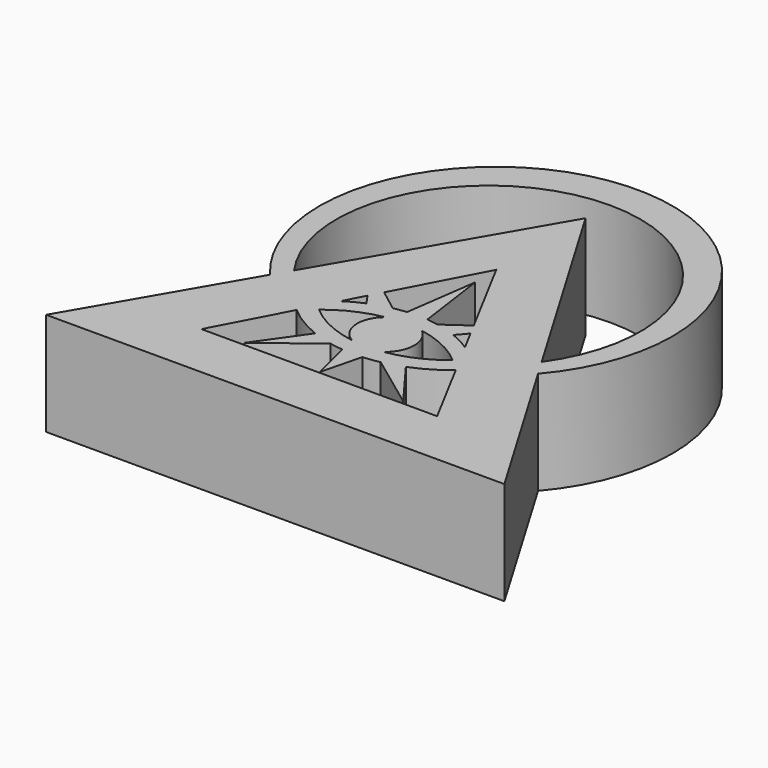
from build123d import *

# Parameters (mm, degrees)
F1_DEPTH = 12.7


with BuildPart() as f1:
    # F0 (on Top) → F1 (new body)
    with BuildSketch(Plane.XY):
        Polygon((28.4341320634, -19.4055674484), (16.6072228474, 0.5649839725), (15.3410355276, 2.7030285383), (-0.0517573007, 28.6948202291), (-15.1502847203, 2.7030285383), (-16.392266223, 0.5649839725), (-27.9930793489, -19.4055674484), align=None)
        Polygon((-5.5338866147, 4.5488285798), (-0.0517573007, 14.9570122475), (5.5130937319, 4.533275296), (6.3052360503, 3.0494829883), (7.6772975292, 0.4794217498), (9.9657592132, -3.8071840331), (14.5561209088, -12.4055674484), (-14.4639933879, -12.4055674484), (-9.8118907302, -3.5732440703), (-7.6772975292, 0.4794217498), (-6.3469045296, 3.0052605063), align=None, mode=Mode.SUBTRACT)
        with BuildLine():
            Line((15.3410355276, 2.7030285383), (16.6072228474, 0.5649839725))
            ThreePointArc((16.6072228474, 0.5649839725), (0.1074783122, 36.4493787708), (-16.392266223, 0.5649839725))
            Line((-16.392266223, 0.5649839725), (-15.1502847203, 2.7030285383))
            ThreePointArc((-15.1502847203, 2.7030285383), (0.0953754036, 32.2811959605), (15.3410355276, 2.7030285383))
        make_face()
        with BuildLine():
            ThreePointArc((-1.25, 2.7170650485), (-2.0384528171, 2.6237544729), (-2.8203458489, 2.4858849867))
            ThreePointArc((-2.8203458489, 2.4858849867), (-4.1389729791, 2.1469936148), (-5.4184339023, 1.6815856044))
            ThreePointArc((-5.4184339023, 1.6815856044), (-6.5753969397, 1.1322347953), (-7.6772975292, 0.4794217498))
            Line((-7.6772975292, 0.4794217498), (-9.8118907302, -3.5732440703))
            ThreePointArc((-9.8118907302, -3.5732440703), (-7.7087252323, -5.1071316738), (-5.3758041575, -6.2619457501))
            ThreePointArc((-5.3758041575, -6.2619457501), (-4.1416849498, -6.6870010678), (-2.8758041575, -7.0052274988))
            ThreePointArc((-2.8758041575, -7.0052274988), (-2.0662029867, -7.1497717339), (-1.25, -7.2505674484))
            ThreePointArc((-1.25, -7.2505674484), (-0.0007219038, -7.319390068), (1.25, -7.2858187435))
            ThreePointArc((1.25, -7.2858187435), (2.275174138, -7.1814245067), (3.2909858999, -7.0082002757))
            ThreePointArc((3.2909858999, -7.0082002757), (4.5568045359, -6.6913035911), (5.7909858999, -6.2676094933))
            ThreePointArc((5.7909858999, -6.2676094933), (7.9764859882, -5.2038725791), (9.9657592132, -3.8071840331))
            Line((9.9657592132, -3.8071840331), (7.6772975292, 0.4794217498))
            ThreePointArc((7.6772975292, 0.4794217498), (6.4763272445, 1.1844520007), (5.2112370885, 1.7666411251))
            ThreePointArc((5.2112370885, 1.7666411251), (3.9568230735, 2.2020283479), (2.6667947325, 2.5165811007))
            ThreePointArc((2.6667947325, 2.5165811007), (1.9609611668, 2.6349411288), (1.25, 2.7170650485))
            ThreePointArc((1.25, 2.7170650485), (0, 2.7729966451), (-1.25, 2.7170650485))
        make_face()
        with BuildLine():
            ThreePointArc((-1.718751716, -5.1704934553), (-5.1564242941, -4.1317080562), (-8.1714597641, -2.1807521431))
            ThreePointArc((-8.1714597641, -2.1807521431), (-5.3747430837, -0.4166707597), (-2.220492786, 0.5754544226))
            ThreePointArc((-2.220492786, 0.5754544226), (0.0265007063, 0.7734069274), (2.2734941986, 0.5754544226))
            ThreePointArc((2.2734941986, 0.5754544226), (5.5525227717, -0.4752769605), (8.4348964566, -2.3588869951))
            ThreePointArc((8.4348964566, -2.3588869951), (5.5044710933, -4.1888856323), (2.1919593719, -5.1704934553))
            ThreePointArc((2.1919593719, -5.1704934553), (0.236603828, -5.3203911551), (-1.718751716, -5.1704934553))
        make_face(mode=Mode.SUBTRACT)
        with BuildLine():
            ThreePointArc((-2.220492786, 0.5754544226), (-3.4887216261, -2.4301685696), (-1.718751716, -5.1704934553))
            ThreePointArc((-1.718751716, -5.1704934553), (0.236603828, -5.3203911551), (2.1919593719, -5.1704934553))
            ThreePointArc((2.1919593719, -5.1704934553), (3.633597714, -2.3173978325), (2.2734941986, 0.5754544226))
            ThreePointArc((2.2734941986, 0.5754544226), (0.0265007063, 0.7734069274), (-2.220492786, 0.5754544226))
        make_face()
        with BuildLine():
            Line((0, 11.6298367835), (-1.25, 2.7170650485))
            ThreePointArc((-1.25, 2.7170650485), (0, 2.7729966451), (1.25, 2.7170650485))
            Line((1.25, 2.7170650485), (0, 11.6298367835))
        make_face()
        with BuildLine():
            Line((10.0648785505, -12.0108920331), (5.7909858999, -6.2676094933))
            ThreePointArc((5.7909858999, -6.2676094933), (4.5568045359, -6.6913035911), (3.2909858999, -7.0082002757))
            Line((3.2909858999, -7.0082002757), (10.0648785505, -12.0108920331))
        make_face()
        with BuildLine():
            ThreePointArc((-2.8758041575, -7.0052274988), (-4.1416849498, -6.6870010678), (-5.3758041575, -6.2619457501))
            Line((-5.3758041575, -6.2619457501), (-9.4500155619, -12.048913168))
            Line((-9.4500155619, -12.048913168), (-2.8758041575, -7.0052274988))
        make_face()
        with BuildLine():
            ThreePointArc((1.25, -7.2858187435), (-0.0007219038, -7.319390068), (-1.25, -7.2505674484))
            Line((-1.25, -7.2505674484), (0, -12.2505674484))
            Line((0, -12.2505674484), (1.25, -7.2858187435))
        make_face()
        with BuildLine():
            Line((-2.8203458489, 2.4858849867), (-5.5338866147, 4.5488285798))
            Line((-5.5338866147, 4.5488285798), (-6.3469045296, 3.0052605063))
            Line((-6.3469045296, 3.0052605063), (-5.4184339023, 1.6815856044))
            ThreePointArc((-5.4184339023, 1.6815856044), (-4.1389729791, 2.1469936148), (-2.8203458489, 2.4858849867))
        make_face()
        with BuildLine():
            Line((6.3052360503, 3.0494829883), (5.5130937319, 4.533275296))
            Line((5.5130937319, 4.533275296), (2.6667947325, 2.5165811007))
            ThreePointArc((2.6667947325, 2.5165811007), (3.9568230735, 2.2020283479), (5.2112370885, 1.7666411251))
            Line((5.2112370885, 1.7666411251), (6.3052360503, 3.0494829883))
        make_face()
    extrude(amount=F1_DEPTH)


solid = f1.part
